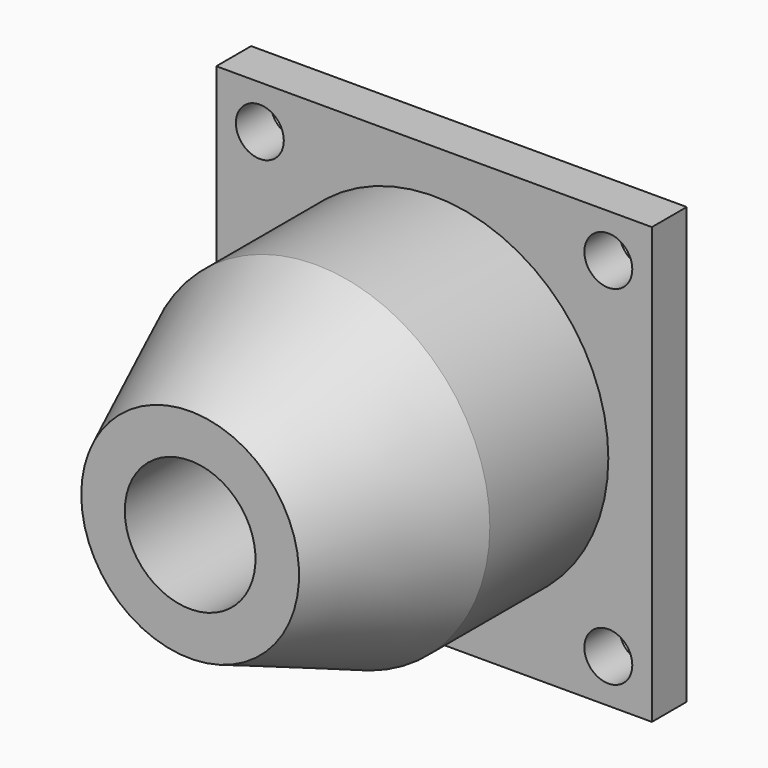
from build123d import *

# Parameters (mm, degrees)
F0_W      = 50
F0_H      = 50
F0_R      = 2.75
F1_DEPTH  = 5
F2_R      = 20
F3_DEPTH  = 17
F7_R      = 7.5
F8_DEPTH  = 40.001
F9_R      = 2.5
F10_DEPTH = 25.001


with BuildPart() as f1:
    # F0 (on Front) → F1 (new body)
    with BuildSketch(Plane.XZ):
        with Locations((25, 25)):
            Rectangle(F0_W, F0_H)
        with Locations((5, 5)):
            Circle(F0_R, mode=Mode.SUBTRACT)
        with Locations((45, 5)):
            Circle(F0_R, mode=Mode.SUBTRACT)
        with Locations((5, 45)):
            Circle(F0_R, mode=Mode.SUBTRACT)
        with Locations((45, 45)):
            Circle(F0_R, mode=Mode.SUBTRACT)
    extrude(amount=F1_DEPTH)

    # F2 (on face) → F3 (join)
    with BuildSketch(Plane.XZ.offset(5)):
        with Locations((25, 25)):
            Circle(F2_R)
    extrude(amount=F3_DEPTH)

    # F5 (on offset) → F6 (revolve)
    with BuildSketch(Plane.XY.offset(25)):
        Polygon((12.5, -40), (17.5, -40), (17.5, -22), (5, -22), align=None)
    revolve(axis=Axis((25, -31, 25), (0, -1, 0)))

    # F7 (on face) → F8 (cut, through all)
    with BuildSketch(Plane(origin=(0, 0, 0), x_dir=(-1, 0, 0), z_dir=(0, 1, 0))):
        with Locations((-25, 25)):
            Circle(F7_R)
    extrude(amount=-F8_DEPTH, mode=Mode.SUBTRACT)

    # F9 (on offset) → F10 (cut, through all)
    with BuildSketch(Plane.XY.offset(25)):
        with Locations((25, -13.5)):
            Circle(F9_R)
    extrude(amount=-F10_DEPTH, mode=Mode.SUBTRACT)


solid = f1.part
